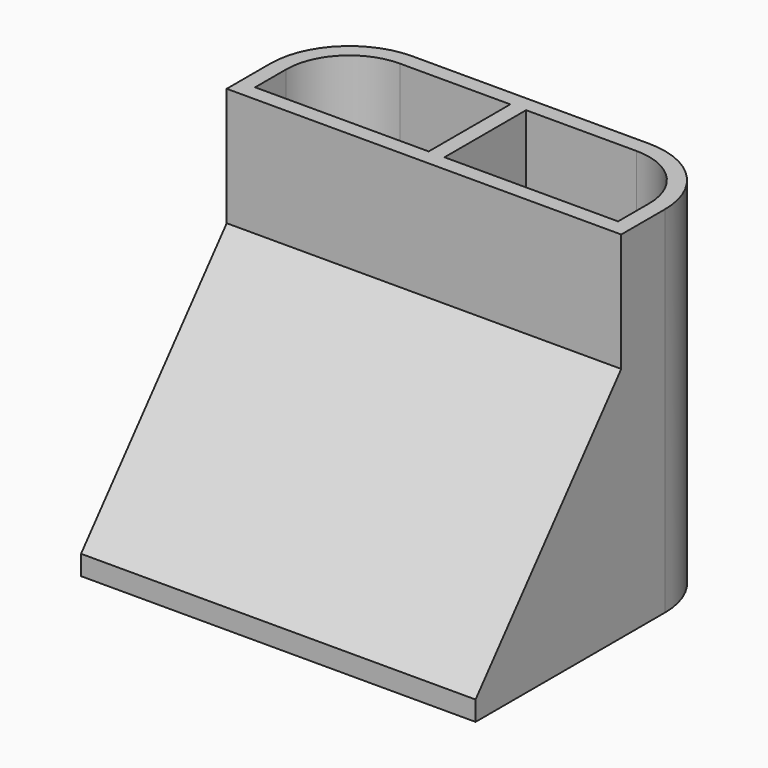
from build123d import *

# Parameters (mm, degrees)
F1_DEPTH = 60
F2_SIZE2 = 46.1504797148
F2_SIZE  = 55
F3_DEPTH = 30
F5_DEPTH = 85


with BuildPart() as f1:
    # F0 (on Top) → F1 (new body)
    with BuildSketch(Plane.XY):
        with BuildLine():
            Line((-50, -40), (50, -40))
            Line((50, -40), (50, 20))
            ThreePointArc((50, 20), (44.1421356237, 34.1421356237), (30, 40))
            Line((30, 40), (-30, 40))
            ThreePointArc((-30, 40), (-44.1421356237, 34.1421356237), (-50, 20))
            Line((-50, 20), (-50, -40))
        make_face()
    extrude(amount=F1_DEPTH)

    # F2
    f2_edges = [f1.edges().sort_by_distance(p)[0] for p in [
        (0, -40, 60),
    ]]
    f2_side = f1.faces().sort_by_distance((0, -40, 30))[0]
    chamfer(f2_edges, length=F2_SIZE, length2=F2_SIZE2, reference=f2_side)

    # F3 (add): a face of the model
    f3_faces = [f1.faces().sort_by_distance(p)[0] for p in [
        (0, 22.4096547689, 60),
    ]]
    extrude(f3_faces, amount=F3_DEPTH)

    # F4 (on face) → F5 (cut)
    with BuildSketch(Plane.XY.offset(90)):
        with BuildLine():
            Line((30, 36), (2, 36))
            Line((2, 36), (2, 10.1504797148))
            Line((2, 10.1504797148), (46, 10.1504797148))
            Line((46, 10.1504797148), (46, 20))
            ThreePointArc((46, 20), (41.313708499, 31.313708499), (30, 36))
        make_face()
        with BuildLine():
            Line((-2, 36), (-30, 36))
            ThreePointArc((-30, 36), (-41.313708499, 31.313708499), (-46, 20))
            Line((-46, 20), (-46, 10.1504797148))
            Line((-46, 10.1504797148), (-2, 10.1504797148))
            Line((-2, 10.1504797148), (-2, 36))
        make_face()
    extrude(amount=-F5_DEPTH, mode=Mode.SUBTRACT)


solid = f1.part
